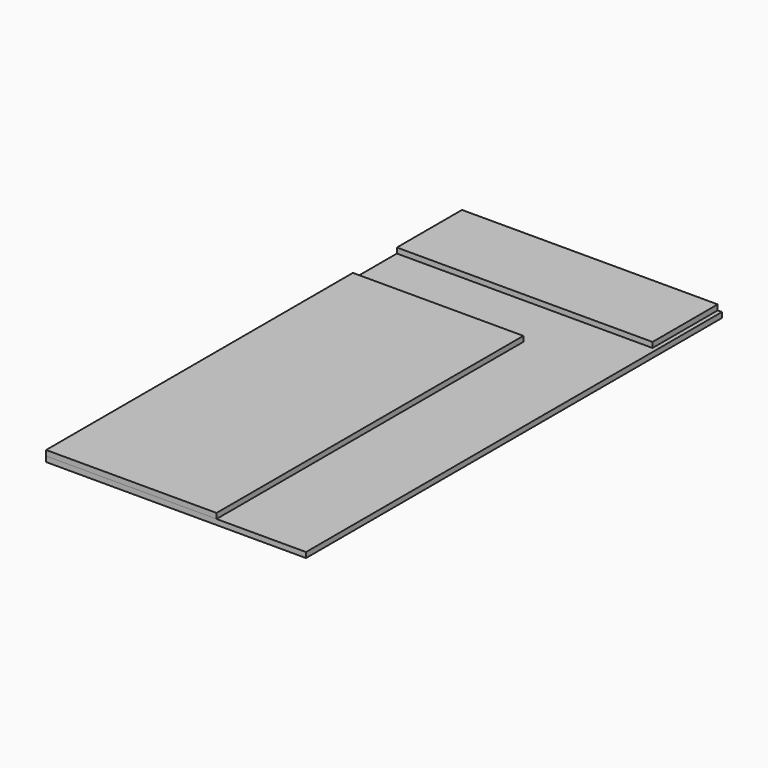
from build123d import *

# Parameters (mm, degrees)
F0_W     = 800
F0_H     = 1800
F1_DEPTH = 25
F2_W     = 1200
F2_H     = 382
F3_DEPTH = 25
F4_W     = 1220
F4_H     = 2440
F5_DEPTH = 25


with BuildPart() as f1:
    # F0 (on Top) → F1 (new body)
    with BuildSketch(Plane.XY):
        with Locations((-210, -320)):
            Rectangle(F0_W, F0_H)
    extrude(amount=F1_DEPTH)


with BuildPart() as f3:
    # F2 (on face) → F3 (new body)
    with BuildSketch(Plane(origin=(0, 0, 0), x_dir=(1, 0, 0), z_dir=(0, 0, -1))):
        with Locations((-10, -1029)):
            Rectangle(F2_W, F2_H)
    extrude(amount=-F3_DEPTH)


with BuildPart() as f5:
    # F4 (on face) → F5 (new body)
    with BuildSketch(Plane(origin=(0, 0, 0), x_dir=(1, 0, 0), z_dir=(0, 0, -1))):
        Rectangle(F4_W, F4_H)
    extrude(amount=F5_DEPTH)


solid = Compound([f1.part, f3.part, f5.part])
